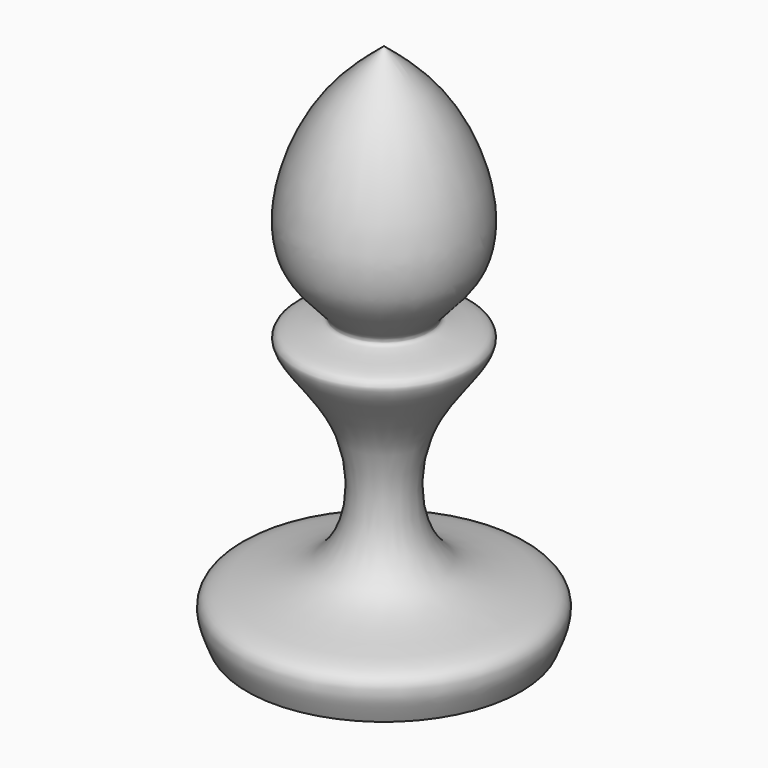
from build123d import *


with BuildPart() as f2:
    # F2: sweep along a path in F0
    with BuildLine(Plane.XY) as f2_path:
        CenterArc((0, 0), 7.7043313464, 0, 360)
    # F1 (on Front) → F2 (sweep)
    with BuildSketch(Plane.XZ):
        with BuildLine():
            Line((0, 0), (7.4746324681, 0))
            add(Edge.make_bspline(
                [(7.4746324681, 0), (7.8448474687, 0.8707434289), (8.7620442607, 3.0279847026), (1.6843184387, 2.5355534476), (0.9525862209, 10.7155552542), (6.5644992954, 15.3020729707), (0.9288740697, 15.1600214489), (5.8564384798, 18.1201447723), (3.8446435622, 25.3696659174), (1.2153422986, 27.5567465129), (0, 28.567681089)],
                knots=[0, 0, 0, 0, 0.089644943, 0.2220927137, 0.3783902567, 0.5109475859, 0.6018190828, 0.7090906502, 0.8655329297, 1, 1, 1, 1], degree=3))
            Line((0, 28.567681089), (0, 0))
        make_face()
    sweep(path=f2_path.line)


solid = f2.part
